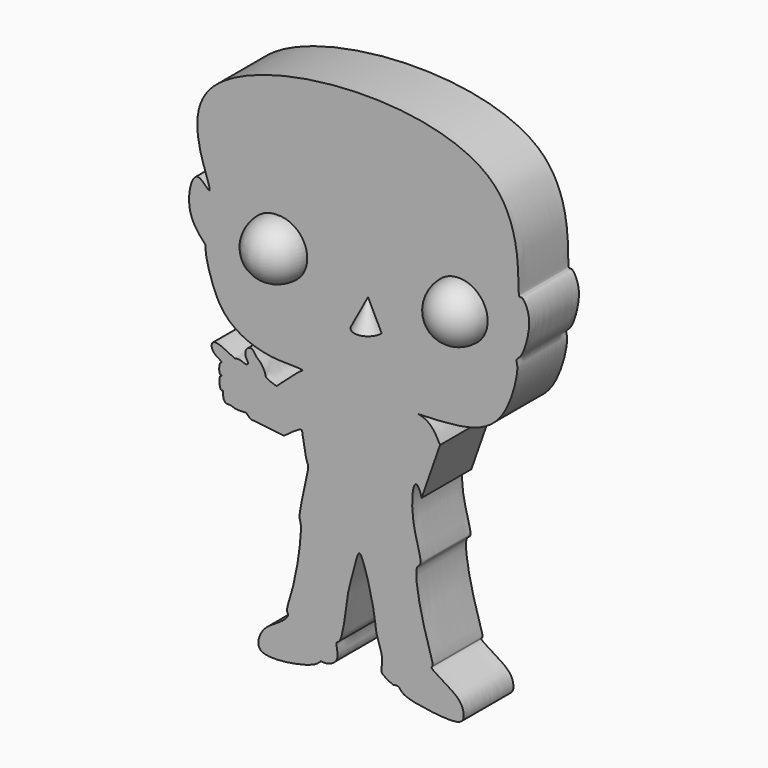
from build123d import *

# Parameters (mm, degrees)
F1_DEPTH = 10
F5_DEPTH = 25


with BuildPart() as f1:
    # F0 (on Front) → F1 (new body)
    with BuildSketch(Plane.XZ):
        with BuildLine():
            add(Edge.make_bspline(
                [(22.2197324038, -11.0104009509), (22.2145532481, -10.8444718206), (22.1948249541, -10.2124192515), (19.3842765126, -12.3480800592), (19.2534481214, -12.4546735367), (14.5518830163, -11.8219561752), (13.7892059217, -11.8811402437), (13.2593733694, -11.0924122433), (12.8522514188, -11.1777664005), (11.4260397308, -11.2460017754), (10.6335747581, -10.8027441303), (10.1105184877, -10.9599485851), (9.4608636153, -10.5648366343), (9.486570306, -9.6971205192), (9.502065368, -9.1740926728)],
                knots=[0, 0, 0, 0, 0.04991033, 0.1901170233, 0.244694236, 0.4168085818, 0.4934488479, 0.5632033103, 0.613122736, 0.7093078568, 0.7862938052, 0.8424947621, 0.9050615472, 1, 1, 1, 1], degree=3))
            add(Edge.make_bspline(
                [(22.2197324038, -11.0104009509), (22.481992947, -12.6522091772), (22.8577932815, -15.0048015021), (23.5115508131, -15.4201025593), (21.3581237139, -23.2347630557), (22.3592567722, -23.8193074504), (21.1135376711, -33.2609658119), (19.4716862097, -36.9451236162), (20.1599458959, -37.694894812), (18.8059917803, -38.9941120891), (16.4845133401, -40.2119254604), (15.241442924, -41.8720532644), (14.6966292388, -45.3964590295), (23.963176138, -43.7659700099), (24.8889029864, -42.7400015867), (25.1880921423, -42.4085184932)],
                knots=[0, 0, 0, 0, 0.0885572638, 0.1268961718, 0.2477700244, 0.2976286917, 0.4325412875, 0.5215602175, 0.5558137773, 0.611525184, 0.6850124035, 0.7498812671, 0.8137219765, 0.9398153405, 1, 1, 1, 1], degree=3))
            add(Edge.make_bspline(
                [(25.1880921423, -42.4085184932), (25.4679352933, -42.4477297312), (26.2055799685, -42.5510924804), (28.4631861801, -41.534419346), (27.4044975065, -38.7167889707), (28.6919321202, -38.9811101349), (29.4568715016, -31.3026314479), (29.9989536823, -29.731049168), (30.9481226894, -25.7382994872), (31.7070550288, -24.3565390926), (33.99328286, -32.6095434409), (33.9752416351, -35.8009991719), (35.3930907974, -38.6286219343), (34.7013078211, -40.9599303936), (35.7790248612, -41.3527963221), (35.5923396781, -41.4847375264), (36.8537679315, -41.9599078596)],
                knots=[0, 0, 0, 0, 0.0465844928, 0.1130006223, 0.1826999382, 0.2174561311, 0.3401883647, 0.4138644789, 0.5063415468, 0.5413859956, 0.6672240084, 0.75956306, 0.8392629638, 0.9066396762, 0.9430270759, 1, 1, 1, 1], degree=3))
            add(Edge.make_bspline(
                [(36.8537679315, -41.9599078596), (37.1800252728, -41.9029719424), (37.8467051249, -41.7866280752), (38.2170061938, -43.1496123387), (43.8712538581, -43.9520582609), (47.2239640582, -44.0649012011), (48.3506184745, -43.222701496), (48.0143395987, -40.7830902102), (45.5364684819, -39.2493076204), (42.7055435551, -37.5686488889), (43.5235179165, -37.2364218496), (41.6584236559, -32.6115496966), (39.9478068557, -23.7789299947), (41.8825966573, -23.7056493), (39.4301091691, -17.8358643034), (40.1462503181, -10.5961596605), (42.0827689215, -15.0783919749), (41.1851710311, -19.7584369484), (42.6462451226, -18.9598059942), (42.6236882816, -20.33349036), (41.563497264, -22.8421598108), (41.9932801208, -24.4158864899), (43.4987012915, -23.5507741261), (44.018080838, -22.0253551585), (44.805767453, -23.5672833683), (43.9668185528, -26.0960754621), (44.2011562426, -27.4617585996), (44.6600966172, -27.9215767424), (44.8507778347, -27.676070109)],
                knots=[0, 0, 0, 0, 0.0240529242, 0.0498866993, 0.1112521656, 0.159944932, 0.1866292837, 0.223377213, 0.2703555948, 0.3134689774, 0.3268986632, 0.384220235, 0.4608123921, 0.4835429701, 0.547690299, 0.6069394576, 0.651018757, 0.7043363771, 0.7253639103, 0.7503185557, 0.7952108934, 0.8224732205, 0.8529391829, 0.8808893674, 0.9070533795, 0.9505099462, 0.981467242, 1, 1, 1, 1], degree=3))
            add(Edge.make_bspline(
                [(44.8507778347, -27.676070109), (44.9193524345, -27.7307069212), (45.0715428945, -27.8519646682), (45.6942213343, -28.2481447438), (47.3389337809, -24.9113414114), (47.2357745374, -23.0449137901), (47.7641021734, -21.7977602727), (47.2246046659, -19.5351439367), (47.2867116274, -18.4739442154), (48.3792757985, -18.5868050497), (46.5855558387, -10.9547193286), (43.6523791661, -2.925266221), (41.3956714098, -2.4553234604), (40.9185774624, -2.3257695138)],
                knots=[0, 0, 0, 0, 0.0320301152, 0.0710857771, 0.1807708027, 0.2663499909, 0.3342852158, 0.4268305162, 0.4826670038, 0.5219788085, 0.681468724, 0.8627527066, 0.9504625167, 0.9504625167, 0.9504625167, 0.9504625167], degree=3))
            add(Edge.make_bspline(
                [(18.0788040161, -5.7793119922), (18.329825578, -5.5701663481), (18.9622110512, -5.0432766811), (20.9079443994, -3.2688250795), (21.7205161178, -2.5467414459), (22.2252673146, -2.256395245), (22.2890948859, -2.018203165), (18.6162008222, -2.0477444456), (16.4524613224, -1.8165650062), (13.153684556, -0.9573554881), (9.8930565691, 1.1394207379), (7.9273156725, 4.4825693412), (6.651227462, 8.9530491955), (6.6104782113, 10.438340397), (6.6756926593, 10.561036536), (3.6264041861, 13.3634628504), (4.0334492544, 18.5015573881), (5.5183318296, 20.3816915941), (7.5077534658, 17.7543806075), (7.0915658088, 20.3276949073), (-1.6248390384, 39.4776272275), (60.7319603134, 44.8048180523), (56.37853365, 18.7763356848), (57.6189575161, 19.8278382134), (58.6654602967, 17.9703141866), (58.8625766431, 15.421369586), (57.7167612477, 11.2234621001), (56.4634293061, 10.5338005716), (57.1398197991, 9.524755372), (55.5824557973, 2.6448231497), (50.989555885, -1.9556927346), (44.5193019704, -2.1934542141), (40.9185774624, -2.3257695138)],
                knots=[0, 0, 0, 0, 0.0193210646, 0.0486745461, 0.068206077, 0.0809382707, 0.0856580423, 0.1180876746, 0.1473997517, 0.1798040352, 0.2147909695, 0.2507342198, 0.2902043272, 0.3099789517, 0.3147170443, 0.3485162659, 0.3900343676, 0.4124849104, 0.4383118033, 0.4577156418, 0.5227817688, 0.6446335642, 0.7156137092, 0.7262152303, 0.7494598944, 0.7801126731, 0.8171865992, 0.8357715577, 0.8520476326, 0.8981586777, 0.9433248602, 1, 1, 1, 1], degree=3))
            add(Edge.make_bspline(
                [(9.2027774081, -7.2158947587), (9.2176276834, -7.1513116151), (9.2502439529, -7.0094650044), (8.7993804104, -7.2358585832), (8.8373646576, -5.4015652588), (9.2160266712, -5.3423314093), (9.2678341131, -5.1095828934), (7.5028713774, -4.4099496682), (7.6053646563, -1.9103765307), (11.1729401863, -4.0422868082), (11.4636668827, -4.0471720743), (12.1839727921, -3.849116353), (13.1758469094, -4.4567409264), (13.6469392884, -3.9777594908), (13.0599835834, -3.4190191206), (13.0207423747, -2.1402300929), (13.7068197063, -1.7396842992), (14.2757676752, -1.7293909415), (14.7915261133, -2.7733620704), (15.4088653724, -3.0259830437), (16.3383817773, -4.4932586688), (16.2542753724, -5.2326705017), (17.3736719309, -5.5680495079), (18.0788040161, -5.7793119922)],
                knots=[0, 0, 0, 0, 0.0200829302, 0.0441089644, 0.1090942297, 0.1377681371, 0.1546411374, 0.2236424942, 0.2841220791, 0.3801988861, 0.4113081447, 0.4540943528, 0.5091178823, 0.5421572399, 0.5859828612, 0.64299502, 0.686677842, 0.7229461918, 0.7762606126, 0.8211781398, 0.8882342992, 0.9295963695, 1, 1, 1, 1], degree=3))
            add(Edge.make_bspline(
                [(9.502065368, -9.1740926728), (9.357254898, -9.2403569411), (8.8998163578, -9.4496776494), (8.8405163614, -7.234755481), (9.1265491302, -7.2198635), (9.2027774081, -7.2158947587)],
                knots=[0, 0, 0, 0, 0.2535971082, 0.8010822073, 1, 1, 1, 1], degree=3))
        make_face()
    extrude(amount=F1_DEPTH)

    # F4 (on face) → F5 (cut)
    with BuildSketch(Plane.XZ.offset(10)):
        Polygon((57.0392347872, -10.7284300029), (57.0961832995, -5.2907378428), (45.0263023371, -3.7206721042), (40.9185774624, -15.4265565798), (41.8321453035, -27.676070109), (46.7775389552, -34.157242626), align=None)
    extrude(amount=-F5_DEPTH, mode=Mode.SUBTRACT)

    # F6 (on face) → F7 (revolve)
    with BuildSketch(Plane.XZ.offset(10)):
        with BuildLine():
            Line((47.4075563252, 9.8339618529), (47.4075563252, 19.0833917474))
            ThreePointArc((47.4075563252, 19.0833917474), (42.7828413779, 14.4586768001), (47.4075563252, 9.8339618529))
        make_face()
    revolve(axis=Axis((47.4075563252, -10, 14.4586768001), (0, 0, -1)))

    # F2 (on face) → F8 (revolve)
    with BuildSketch(Plane.XZ.offset(10)):
        with BuildLine():
            Line((18.2430778287, 9.3284952121), (18.2430778287, 18.4965584857))
            ThreePointArc((18.2430778287, 18.4965584857), (13.4644325746, 13.9125268489), (18.2430778287, 9.3284952121))
        make_face()
    revolve(axis=Axis((18.2430778287, -10, 13.9125268489), (0, 0, -1)))

    # F9 (on face) → F10 (revolve)
    with BuildSketch(Plane.XZ.offset(10)):
        Polygon((32.7913425863, 7.1848742664), (32.7913425863, 11.6024417803), (30.5912010372, 7.1848742664), align=None)
    revolve(axis=Axis((32.7913425863, -10, 9.3936580233), (0, 0, -1)))


solid = f1.part
